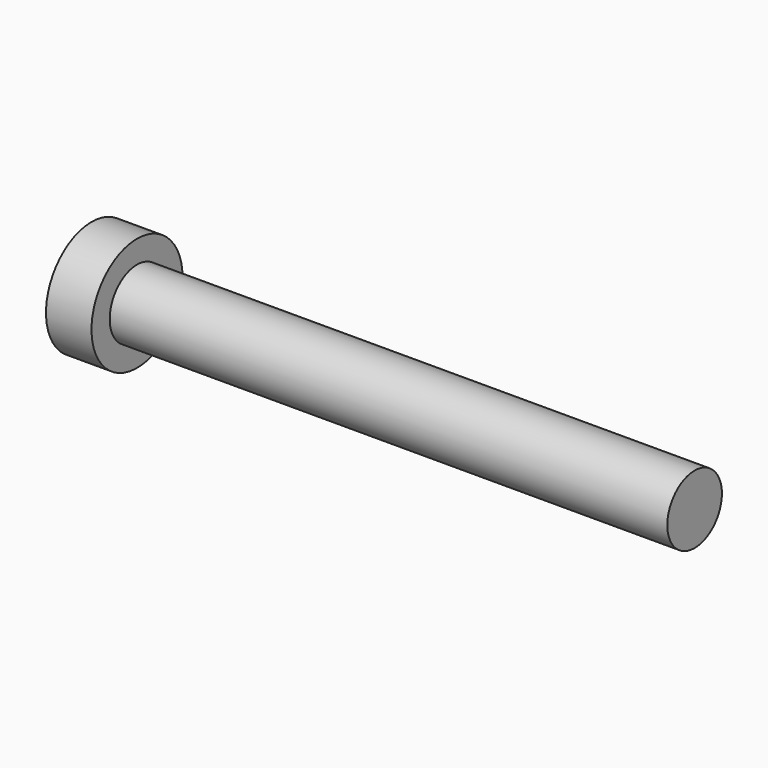
from build123d import *

# Parameters (mm, degrees)
F0_R     = 3
F1_DEPTH = 49
F0_R_2   = 5
F2_DEPTH = 4


with BuildPart() as f1:
    # F0 (on Right) → F1 (new body)
    with BuildSketch(Plane.YZ):
        Circle(F0_R)
    extrude(amount=F1_DEPTH)

    # F0 (on Right) → F2 (join)
    with BuildSketch(Plane.YZ):
        Circle(F0_R_2)
        Circle(F0_R, mode=Mode.SUBTRACT)
        Circle(F0_R)
    extrude(amount=-F2_DEPTH)


solid = f1.part
